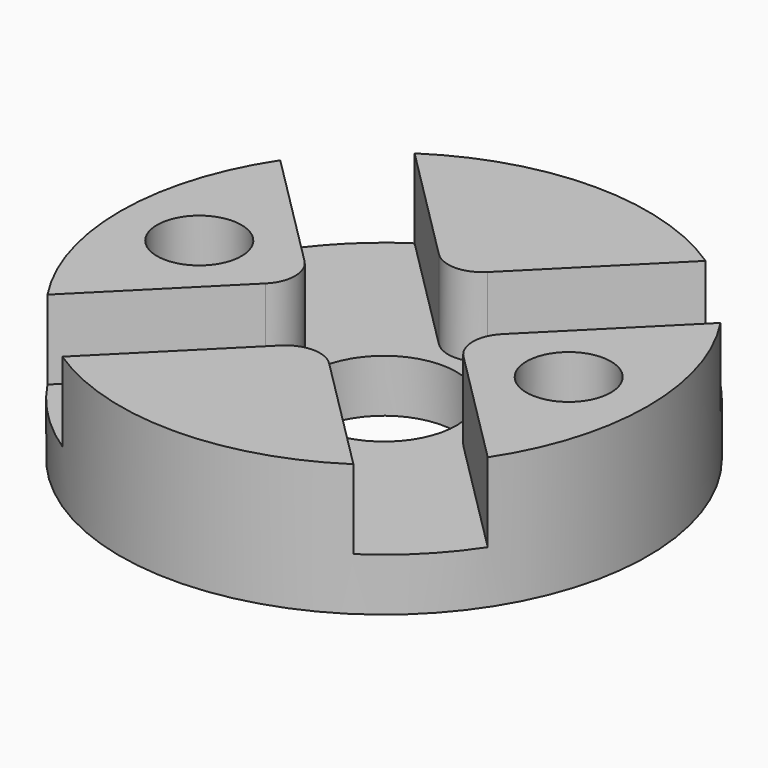
from build123d import *

# Parameters (mm, degrees)
SKETCH042_R             = 10
PAD013_DEPTH            = 5
POCKET026_DEPTH         = 3
SKETCH044_R             = 2.75
POCKET027_DEPTH         = 5.001
SKETCH045_R             = 1.6
POCKET028_DEPTH         = 5.001
BODY008_PLACEMENT_ANGLE = 135


with BuildPart() as part:
    # Sketch042 → Pad013 (new body)
    with BuildSketch(Plane.XY):
        Circle(SKETCH042_R)
    extrude(amount=PAD013_DEPTH)

    # Sketch043 (on Face3 of Pad013) → Pocket026 (cut)
    with BuildSketch(Plane.XY.offset(5)):
        with BuildLine():
            Line((-2, 10), (2, 10))
            Line((2, 10), (2, 3.3))
            ThreePointArc((2, 3.3), (2.380761, 2.380761), (3.3, 2))
            Line((3.3, 2), (10, 2))
            Line((10, 2), (10, -2))
            Line((10, -2), (3.3, -2))
            ThreePointArc((3.3, -2), (2.380761, -2.380761), (2, -3.3))
            Line((2, -3.3), (2, -10))
            Line((2, -10), (-2, -10))
            Line((-2, -10), (-2, -3.3))
            ThreePointArc((-2, -3.3), (-2.380761, -2.380761), (-3.3, -2))
            Line((-3.3, -2), (-10, -2))
            Line((-10, -2), (-10, 2))
            Line((-10, 2), (-3.3, 2))
            ThreePointArc((-3.3, 2), (-2.380761, 2.380761), (-2, 3.3))
            Line((-2, 3.3), (-2, 10))
        make_face()
    extrude(amount=-POCKET026_DEPTH, mode=Mode.SUBTRACT)

    # Sketch044 (on Face2 of Pocket026) → Pocket027 (cut, through all)
    with BuildSketch(Plane(origin=(0, 0, 0), x_dir=(1, 0, 0), z_dir=(0, 0, -1))):
        Circle(SKETCH044_R)
    extrude(amount=-POCKET027_DEPTH, mode=Mode.SUBTRACT)

    # Sketch045 (on Face8 of Pocket027) → Pocket028 (cut, through all)
    with BuildSketch(Plane.XY.offset(5)):
        with Locations((4.949747, 4.949747)):
            Circle(SKETCH045_R)
        with Locations((-4.949747, -4.949747)):
            Circle(SKETCH045_R)
    extrude(amount=-POCKET028_DEPTH, mode=Mode.SUBTRACT)


with BuildPart() as part_1:
    # Body008 placement: moved
    add(part.part.moved(Location((-93, 40, 8))).rotate(Axis((-93, 40, 8), (0, 0, 1)), BODY008_PLACEMENT_ANGLE))


solid = part_1.part
